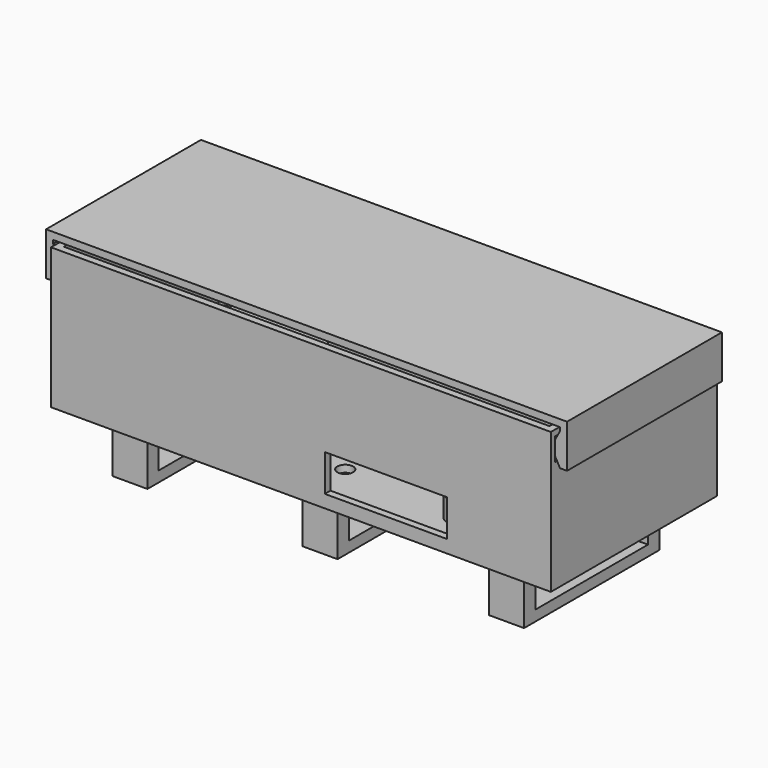
from build123d import *

# Parameters (mm, degrees)
EXTRUDE003_DEPTH = 27.5
SKETCH009_R      = 2.25
EXTRUDE008_DEPTH = 5
SKETCH008_W      = 48
SKETCH008_H      = 15
SKETCH008_W_2    = 40
SKETCH008_H_2    = 6
EXTRUDE007_DEPTH = 5
SKETCH010_R      = 2.25
EXTRUDE009_DEPTH = 5
SKETCH007_W      = 34.670539
SKETCH007_H      = 10.465025
EXTRUDE006_DEPTH = 5
SKETCH005_W      = 11.106274
SKETCH005_H      = 3.559703
SKETCH005_W_2    = 28.762413
SKETCH005_H_2    = 10.694447
EXTRUDE005_DEPTH = 5
EXTRUDE004_DEPTH = 28
SKETCH002_R      = 3
SKETCH002_R_2    = 1.5
EXTRUDE002_DEPTH = 6
SKETCH001_W      = 142
SKETCH001_H      = 59
SKETCH001_W_2    = 138
SKETCH001_H_2    = 55
EXTRUDE001_DEPTH = 40
SKETCH_W         = 138
SKETCH_H         = 55
EXTRUDE_DEPTH    = 2


with BuildPart() as lid:
    # Sketch003 → Extrude003 (new body, symmetric)
    with BuildSketch(Plane.XZ):
        Polygon((-72, 39.724113), (-69.5, 35.034113), (-72, 30.444113), (-74, 30.444113), (-74, 42.724113), (0, 42.724113), (74, 42.724113), (74, 30.444113), (72, 30.444113), (69.5, 35.034113), (72, 39.724113), (72, 40.724113), (0, 40.724113), (-72, 40.724113), align=None)
    extrude(amount=EXTRUDE003_DEPTH, both=True)


with BuildPart() as extrude008:
    # Sketch009 (on Face1 of Extrude007) → Extrude008 (new body)
    with BuildSketch(Plane.XY.offset(-0.2)):
        with Locations((0, 15)):
            Circle(SKETCH009_R)
        with Locations((0, -15)):
            Circle(SKETCH009_R)
    extrude(amount=-EXTRUDE008_DEPTH)


with BuildPart() as extrude007:
    # Sketch008 → Extrude007 (new body, symmetric)
    with BuildSketch(Plane.YZ):
        with Locations((0, -7.7)):
            Rectangle(SKETCH008_W, SKETCH008_H)
        with Locations((0, -9.2)):
            Rectangle(SKETCH008_W_2, SKETCH008_H_2, mode=Mode.SUBTRACT)
    extrude(amount=EXTRUDE007_DEPTH, both=True)


with BuildPart() as belt_holder:
    # Cut003 base: copy of Extrude007
    add(extrude007.part)

    # Cut003: cut Extrude008
    add(extrude008.part, mode=Mode.SUBTRACT)


with BuildPart() as belt_holder_1:
    # Cut003 placement: moved
    add(belt_holder.part.moved(Location((-53, 0, 0))))


with BuildPart() as belt_holder001:
    # Cut004 base: copy of Extrude007
    add(extrude007.part)

    # Cut004: cut Extrude008
    add(extrude008.part, mode=Mode.SUBTRACT)


with BuildPart() as belt_holder001_1:
    # Cut004 placement: moved
    add(belt_holder001.part.moved(Location((54, 0, 0))))


with BuildPart() as belt_holder002:
    # Cut005 base: copy of Extrude007
    add(extrude007.part)

    # Cut005: cut Extrude008
    add(extrude008.part, mode=Mode.SUBTRACT)


with BuildPart() as belt_holder002_1:
    # Cut005 placement: moved
    add(belt_holder002.part.moved(Location((1, 0, 0))))


with BuildPart() as extrude009:
    # Sketch010 (on Face32 of Cut002) → Extrude009 (new body, symmetric)
    with BuildSketch(Plane.XY.offset(2)):
        with Locations((1.016326, 14.998281)):
            Circle(SKETCH010_R)
        with Locations((-53.040443, 15.021804)):
            Circle(SKETCH010_R)
        with Locations((-52.980717, -15.010744)):
            Circle(SKETCH010_R)
        with Locations((1.009869, -15.028932)):
            Circle(SKETCH010_R)
        with Locations((53.954998, -15.000691)):
            Circle(SKETCH010_R)
        with Locations((54.013397, 14.985782)):
            Circle(SKETCH010_R)
    extrude(amount=EXTRUDE009_DEPTH, both=True)


with BuildPart() as extrude006:
    # Sketch007 (on Face5 of Cut001) → Extrude006 (new body, symmetric)
    with BuildSketch(Plane.XZ.offset(29.5)):
        with Locations((24.138128, 8.862338)):
            Rectangle(SKETCH007_W, SKETCH007_H)
    extrude(amount=EXTRUDE006_DEPTH, both=True)


with BuildPart() as extrude005:
    # Sketch005 (on Face3 of Cut) → Extrude005 (new body, symmetric)
    with BuildSketch(Plane(origin=(0, 29.5, 0), x_dir=(-1, 0, 0), z_dir=(0, 1, 0))):
        with Locations((-51.33996, 9.443008)):
            Rectangle(SKETCH005_W, SKETCH005_H)
        with Locations((52.317911, 8.120879)):
            Rectangle(SKETCH005_W_2, SKETCH005_H_2)
    extrude(amount=EXTRUDE005_DEPTH, both=True)


with BuildPart() as extrude004:
    # Sketch004 → Extrude004 (new body, symmetric)
    with BuildSketch(Plane.XZ):
        Polygon((-72, 40.07), (-72, 30.09), (-69.15, 35.03), align=None)
        Polygon((72, 40.07), (72, 30.09), (69.15, 35.03), align=None)
    extrude(amount=EXTRUDE004_DEPTH, both=True)


with BuildPart() as extrude002:
    # Sketch002 (on Face12 of Fusion) → Extrude002 (new body)
    with BuildSketch(Plane.XY.offset(2)):
        with Locations((-61, 17.8)):
            Circle(SKETCH002_R)
        with Locations((-61, 17.8)):
            Circle(SKETCH002_R_2, mode=Mode.SUBTRACT)
        with Locations((42.9, 14.2)):
            Circle(SKETCH002_R)
        with Locations((42.9, 14.2)):
            Circle(SKETCH002_R_2, mode=Mode.SUBTRACT)
        with Locations((62.71, 14.2)):
            Circle(SKETCH002_R)
        with Locations((62.71, 14.2)):
            Circle(SKETCH002_R_2, mode=Mode.SUBTRACT)
        with Locations((42.11, -14.2)):
            Circle(SKETCH002_R)
        with Locations((42.11, -14.2)):
            Circle(SKETCH002_R_2, mode=Mode.SUBTRACT)
        with Locations((62.71, -14.2)):
            Circle(SKETCH002_R)
        with Locations((62.71, -14.2)):
            Circle(SKETCH002_R_2, mode=Mode.SUBTRACT)
        with Locations((35, 17.8)):
            Circle(SKETCH002_R)
        with Locations((35, 17.8)):
            Circle(SKETCH002_R_2, mode=Mode.SUBTRACT)
        with Locations((-61, -17.8)):
            Circle(SKETCH002_R)
        with Locations((-61, -17.8)):
            Circle(SKETCH002_R_2, mode=Mode.SUBTRACT)
        with Locations((35, -17.8)):
            Circle(SKETCH002_R)
        with Locations((35, -17.8)):
            Circle(SKETCH002_R_2, mode=Mode.SUBTRACT)
    extrude(amount=EXTRUDE002_DEPTH)


with BuildPart() as extrude001:
    # Sketch001 → Extrude001 (new body)
    with BuildSketch(Plane.XY):
        Rectangle(SKETCH001_W, SKETCH001_H)
        Rectangle(SKETCH001_W_2, SKETCH001_H_2, mode=Mode.SUBTRACT)
    extrude(amount=EXTRUDE001_DEPTH)


with BuildPart() as cut006:
    # Sketch → Extrude (new body)
    with BuildSketch(Plane.XY):
        Rectangle(SKETCH_W, SKETCH_H)
    extrude(amount=EXTRUDE_DEPTH)

    # Fusion: union Extrude001
    add(extrude001.part)

    # Fusion001: union Extrude002
    add(extrude002.part)

    # Cut: cut Extrude004
    add(extrude004.part, mode=Mode.SUBTRACT)

    # Cut001: cut Extrude005
    add(extrude005.part, mode=Mode.SUBTRACT)

    # Cut002: cut Extrude006
    add(extrude006.part, mode=Mode.SUBTRACT)

    # Cut006: cut Extrude009
    add(extrude009.part, mode=Mode.SUBTRACT)


solid = Compound([lid.part, belt_holder_1.part, belt_holder001_1.part, belt_holder002_1.part, cut006.part])
